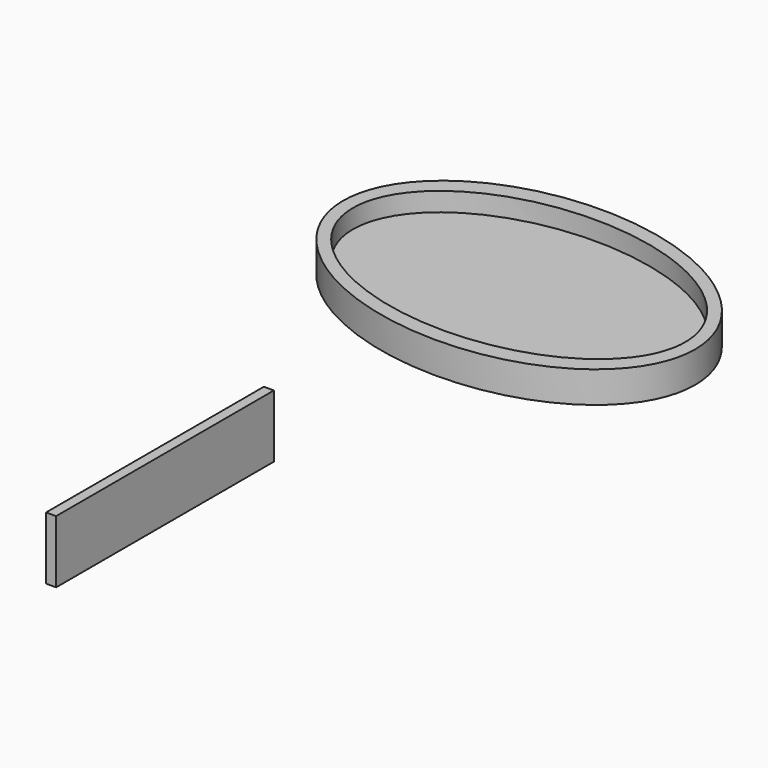
from build123d import *

# Parameters (mm, degrees)
F0_W     = 434
F0_H     = 100
F1_DEPTH = 16
F3_DEPTH = 50
F5_DEPTH = 30


with BuildPart() as f1:
    # F0 (on Right) → F1 (new body)
    with BuildSketch(Plane.YZ):
        with Locations((-217, 50)):
            Rectangle(F0_W, F0_H)
    extrude(amount=F1_DEPTH)


with BuildPart() as f3:
    # F2 (on Top) → F3 (new body)
    with BuildSketch(Plane.XY):
        with BuildLine():
            add(Edge.make_bspline(
                [(295.3317669038, 472.9412120083), (337.0784880741, 816.8266744395), (-126.7925228667, 698.6626032979), (-590.6635338076, 580.4985321564), (-168.539244037, 354.7771408667), (253.5850457335, 129.0557495771), (295.3317669038, 472.9412120083)],
                knots=[0, 0, 0, 2.0943951024, 2.0943951024, 4.1887902048, 4.1887902048, 6.2831853072, 6.2831853072, 6.2831853072], degree=2, weights=[1, 0.5, 1, 0.5, 1, 0.5, 1]))
        make_face()
    extrude(amount=F3_DEPTH)

    # F4 (on face) → F5 (cut)
    with BuildSketch(Plane.XY.offset(50)):
        with BuildLine():
            add(Edge.make_bspline(
                [(274.2529957023, 488.5379282175), (296.579141143, 790.8234608348), (-125.9634251309, 670.0642802864), (-548.5059914047, 549.305099738), (-148.2895705715, 367.7787476691), (251.9268502617, 186.2523956001), (274.2529957023, 488.5379282175)],
                knots=[0, 0, 0, 2.0943951024, 2.0943951024, 4.1887902048, 4.1887902048, 6.2831853072, 6.2831853072, 6.2831853072], degree=2, weights=[1, 0.5, 1, 0.5, 1, 0.5, 1]))
        make_face()
    extrude(amount=-F5_DEPTH, mode=Mode.SUBTRACT)


solid = Compound([f1.part, f3.part])
